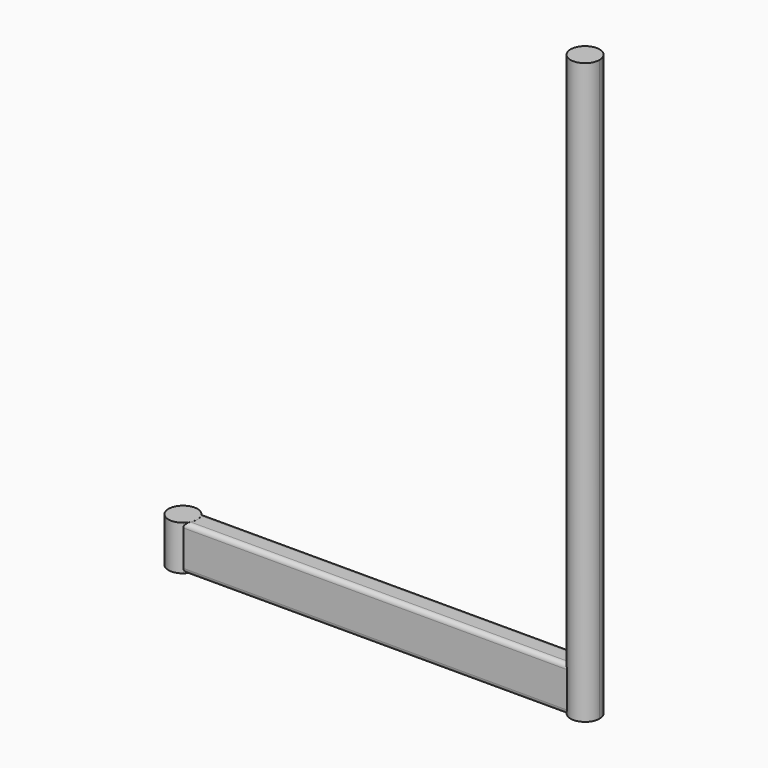
from build123d import *

# Parameters (mm, degrees)
F1_DEPTH = 50
F2_DEPTH = 650
F3_R     = 5.08


with BuildPart() as f1:
    # F0 (on Top) → F1 (new body)
    with BuildSketch(Plane.XY):
        with BuildLine():
            ThreePointArc((-131.1912735713, -32.0673150737), (-125.2999405011, -19.5673150737), (-131.1912735713, -7.0673150737))
            Line((-131.1912735713, -7.0673150737), (-131.1438777998, -7.0673150737))
            ThreePointArc((-131.1438777998, -7.0673150737), (-157.6947483509, -19.5673150737), (-131.1438777998, -32.0673150737))
            Line((-131.1438777998, -32.0673150737), (-131.1912735713, -32.0673150737))
        make_face()
    extrude(amount=F1_DEPTH)


with BuildPart() as f1b:
    # F0 (on Top) → F1, piece 2 (new body)
    with BuildSketch(Plane.XY):
        with BuildLine():
            Line((298.8087264287, -7.0673150737), (-131.1438777998, -7.0673150737))
            ThreePointArc((-131.1438777998, -7.0673150737), (-126.8037545477, -12.6593053274), (-125.2589483509, -19.5673150737))
            ThreePointArc((-125.2589483509, -19.5673150737), (-126.8037545477, -26.4753248199), (-131.1438777998, -32.0673150737))
            Line((-131.1438777998, -32.0673150737), (298.8087264287, -32.0673150737))
            ThreePointArc((298.8087264287, -32.0673150737), (298.0617434777, -31.3999455205), (297.3571034719, -30.688012861))
            ThreePointArc((297.3571034719, -30.688012861), (292.9528239105, -19.9938442344), (296.7935969923, -9.084610384))
            ThreePointArc((296.7935969923, -9.084610384), (297.7570271304, -8.0318755339), (298.8087264287, -7.0673150737))
        make_face()
    extrude(amount=F1_DEPTH)

    # F3
    f3_edges = [f1b.edges().sort_by_distance(p)[0] for p in [
        (83.832424, -32.067315, 50),
        (83.832424, -7.067315, 50),
        (83.832424, -32.067315, 0),
        (83.832424, -7.067315, 0),
    ]]
    fillet(f3_edges, radius=F3_R)


with BuildPart() as f2:
    # F0 (on Top) → F2 (new body)
    with BuildSketch(Plane.XY):
        with BuildLine():
            ThreePointArc((325.3831095318, -19.5709578693), (314.749952382, -4.344962739), (296.7935969923, -9.084610384))
            ThreePointArc((296.7935969923, -9.084610384), (292.988070559, -19.9929248554), (297.3571034719, -30.688012861))
            ThreePointArc((297.3571034719, -30.688012861), (315.1450756315, -34.6461521247), (325.3831095318, -19.5709578693))
        make_face()
    extrude(amount=F2_DEPTH)


solid = Compound([f1.part, f1b.part, f2.part])
